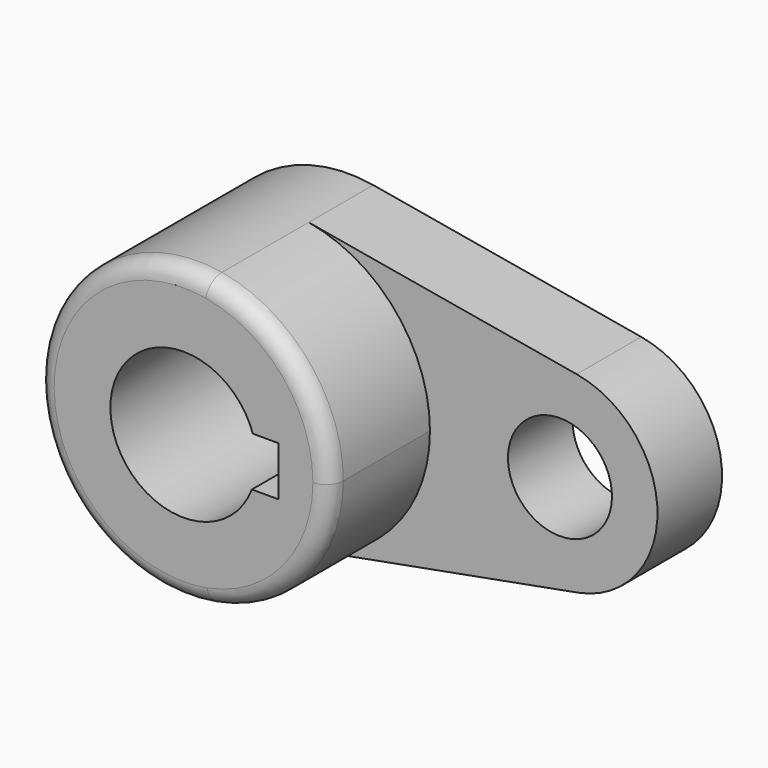
from build123d import *

# Parameters (mm, degrees)
F1_DEPTH = 40.2336
F0_R     = 10.16
F2_DEPTH = 15.7734
F3_R     = 3.302


with BuildPart() as f1:
    # F0 (on Front) → F1 (new body)
    with BuildSketch(Plane.XZ):
        with BuildLine():
            ThreePointArc((5.198131, -28.098222), (21.966648, -18.275585), (28.575, 0))
            ThreePointArc((28.575, 0), (21.865183, 18.396858), (4.886854, 28.154028))
            ThreePointArc((4.886854, 28.154028), (-28.574563, -0.15812), (5.198131, -28.098222))
        make_face()
        with BuildLine():
            ThreePointArc((13.350236, -5.089584), (-14.284755, 0.280051), (13.539462, 4.562416))
            Line((13.539462, 4.562416), (18.5293, 4.562416))
            Line((18.5293, 4.562416), (18.5293, -5.089584))
            Line((18.5293, -5.089584), (13.350236, -5.089584))
        make_face(mode=Mode.SUBTRACT)
    extrude(amount=F1_DEPTH)

    # F0 (on Front) → F2 (join)
    with BuildSketch(Plane.XZ):
        with BuildLine():
            ThreePointArc((4.886854, 28.154028), (21.865183, 18.396858), (28.575, 0))
            ThreePointArc((28.575, 0), (21.966648, -18.275585), (5.198131, -28.098222))
            Line((5.198131, -28.098222), (57.440421, -18.433472))
            ThreePointArc((57.440421, -18.433472), (73.024708, 0.404089), (57.232903, 19.068028))
            Line((57.232903, 19.068028), (4.886854, 28.154028))
        make_face()
        with Locations((53.975, 0.298676)):
            Circle(F0_R, mode=Mode.SUBTRACT)
    extrude(amount=F2_DEPTH)

    # F3
    f3_edges = [f1.edges().sort_by_distance(p)[0] for p in [
        (-5.198131, -40.2336, 28.098222),
    ]]
    fillet(f3_edges, radius=F3_R)


solid = f1.part
